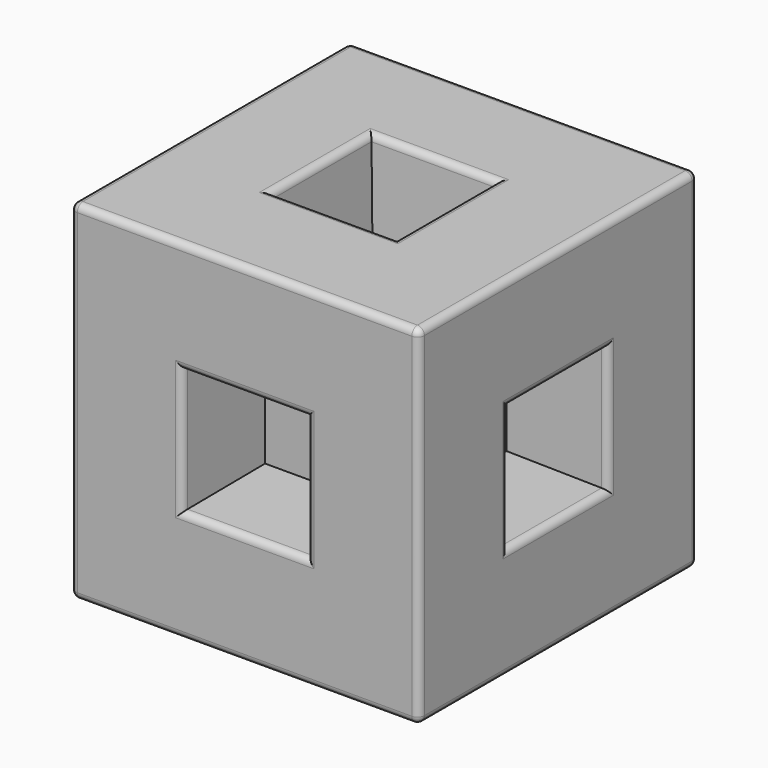
from build123d import *

# Parameters (mm, degrees)
F0_W      = 25
F0_H      = 25
F1_DEPTH  = 25
F2_W      = 9
F2_H      = 9
F3_DEPTH  = 7
F3_TAPER  = 3
F4_W      = 9
F4_H      = 9
F9_DEPTH  = 7
F9_TAPER  = 3
F5_W      = 9
F5_H      = 9
F10_DEPTH = 7
F10_TAPER = 3
F6_W      = 9
F6_H      = 9
F11_DEPTH = 7
F11_TAPER = 3
F7_W      = 9
F7_H      = 9
F12_DEPTH = 7
F12_TAPER = 3
F8_W      = 9
F8_H      = 9
F13_DEPTH = 7
F13_TAPER = 3
F14_R     = 0.5


with BuildPart() as f1:
    # F0 (on Top) → F1 (new body)
    with BuildSketch(Plane.XY):
        Rectangle(F0_W, F0_H)
    extrude(amount=F1_DEPTH)

    # F2 (on face) → F3 (cut)
    with BuildSketch(Plane.XY.offset(25)):
        Rectangle(F2_W, F2_H)
    extrude(amount=-F3_DEPTH, taper=F3_TAPER, mode=Mode.SUBTRACT)

    # F4 (on face) → F9 (cut)
    with BuildSketch(Plane.XZ.offset(12.5)):
        with Locations((0, 12.5)):
            Rectangle(F4_W, F4_H)
    extrude(amount=-F9_DEPTH, taper=F9_TAPER, mode=Mode.SUBTRACT)

    # F5 (on face) → F10 (cut)
    with BuildSketch(Plane(origin=(0, 12.5, 0), x_dir=(-1, 0, 0), z_dir=(0, 1, 0))):
        with Locations((0, 12.5)):
            Rectangle(F5_W, F5_H)
    extrude(amount=-F10_DEPTH, taper=F10_TAPER, mode=Mode.SUBTRACT)

    # F6 (on face) → F11 (cut)
    with BuildSketch(Plane(origin=(-12.5, 0, 0), x_dir=(0, -1, 0), z_dir=(-1, 0, 0))):
        with Locations((0, 12.5)):
            Rectangle(F6_W, F6_H)
    extrude(amount=-F11_DEPTH, taper=F11_TAPER, mode=Mode.SUBTRACT)

    # F7 (on face) → F12 (cut)
    with BuildSketch(Plane.YZ.offset(12.5)):
        with Locations((0, 12.5)):
            Rectangle(F7_W, F7_H)
    extrude(amount=-F12_DEPTH, taper=F12_TAPER, mode=Mode.SUBTRACT)

    # F8 (on face) → F13 (cut)
    with BuildSketch(Plane(origin=(0, 0, 0), x_dir=(1, 0, 0), z_dir=(0, 0, -1))):
        Rectangle(F8_W, F8_H)
    extrude(amount=-F13_DEPTH, taper=F13_TAPER, mode=Mode.SUBTRACT)

    # F14
    f14_edges = [f1.edges().sort_by_distance(p)[0] for p in [
        (-4.5, 0, 25),
        (0, 4.5, 25),
        (0, -4.5, 25),
        (4.5, 0, 25),
        (-4.5, 0, 0),
        (0, 4.5, 0),
        (4.5, 0, 0),
        (0, -4.5, 0),
        (12.5, 0, 8),
        (12.5, -4.5, 12.5),
        (12.5, 0, 17),
        (12.5, 4.5, 12.5),
        (0, 12.5, 17),
        (-4.5, 12.5, 12.5),
        (0, 12.5, 8),
        (4.5, 12.5, 12.5),
        (0, -12.5, 8),
        (-4.5, -12.5, 12.5),
        (0, -12.5, 17),
        (4.5, -12.5, 12.5),
        (-12.5, 4.5, 12.5),
        (-12.5, 0, 17),
        (-12.5, -4.5, 12.5),
        (-12.5, 0, 8),
        (-12.5, -12.5, 12.5),
        (-12.5, 0, 0),
        (-12.5, 0, 25),
        (-12.5, 12.5, 12.5),
        (0, 12.5, 25),
        (12.5, 0, 25),
        (0, -12.5, 25),
        (12.5, -12.5, 12.5),
        (0, -12.5, 0),
        (12.5, 0, 0),
        (12.5, 12.5, 12.5),
        (0, 12.5, 0),
    ]]
    fillet(f14_edges, radius=F14_R)


solid = f1.part
